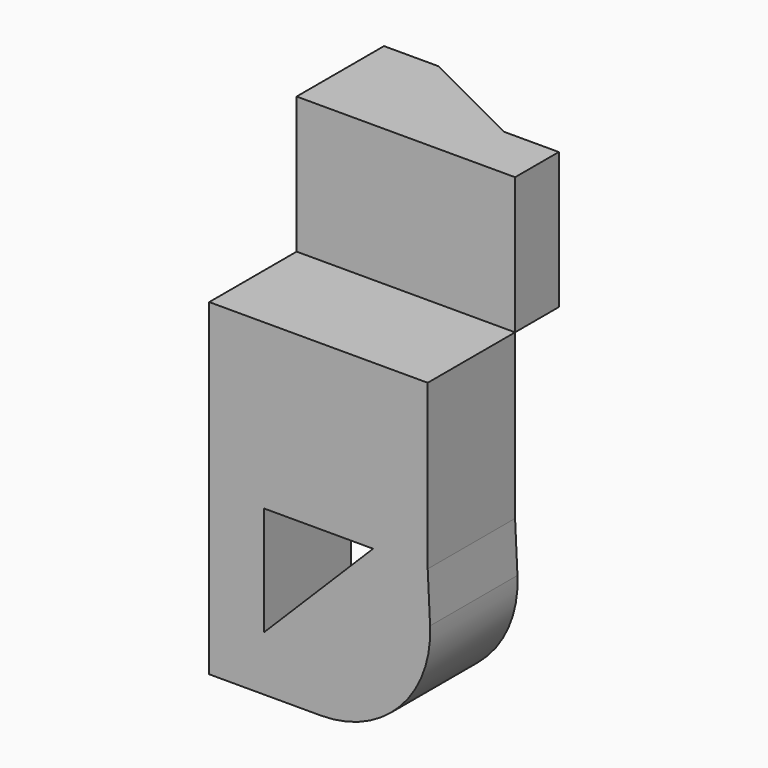
from build123d import *

# Parameters (mm, degrees)
F0_W     = 10
F0_H     = 20
F0_W_2   = 20.507412
F0_W_3   = 9.492588
F1_DEPTH = 20
F3_DEPTH = 25


with BuildPart() as f1:
    # F0 (on Front) → F1 (new body)
    with BuildSketch(Plane.XZ):
        with Locations((-16.585429, 58.921978)):
            Rectangle(F0_W, F0_H)
        with BuildLine():
            Line((-11.585429, 48.921978), (-21.585429, 48.921978))
            Line((-21.585429, 48.921978), (-21.585429, 38.921978))
            Line((-21.585429, 38.921978), (-21.585429, 18.921978))
            Line((-21.585429, 18.921978), (-21.585429, 8.921978))
            Line((-21.585429, 8.921978), (-11.585429, 8.921978))
            Line((-11.585429, 8.921978), (-1.127242, 8.921978))
            ThreePointArc((-1.127242, 8.921978), (13.35087, 15.123997), (18.849629, 29.88355))
            Line((18.849629, 29.88355), (18.414571, 38.921978))
            Line((18.414571, 38.921978), (18.414571, 48.921978))
            Line((18.414571, 48.921978), (8.921983, 48.921978))
            Line((8.921983, 48.921978), (-11.585429, 48.921978))
        make_face()
        Polygon((8.414571, 38.921978), (-11.585429, 18.921978), (-11.585429, 38.921978), align=None, mode=Mode.SUBTRACT)
        with Locations((-1.331723, 58.921978)):
            Rectangle(F0_W_2, F0_H)
        with Locations((13.668277, 58.921978)):
            Rectangle(F0_W_3, F0_H)
    extrude(amount=F1_DEPTH)


with BuildPart() as f3:
    # F2 (on face) → F3 (new body)
    with BuildSketch(Plane.XY.offset(68.921978)):
        Polygon((-21.585429, 20), (-21.585429, 0), (18.414571, 0), (18.414571, 10), (8.414571, 10), (-11.585429, 20), align=None)
    extrude(amount=F3_DEPTH)


solid = Compound([f1.part, f3.part])
